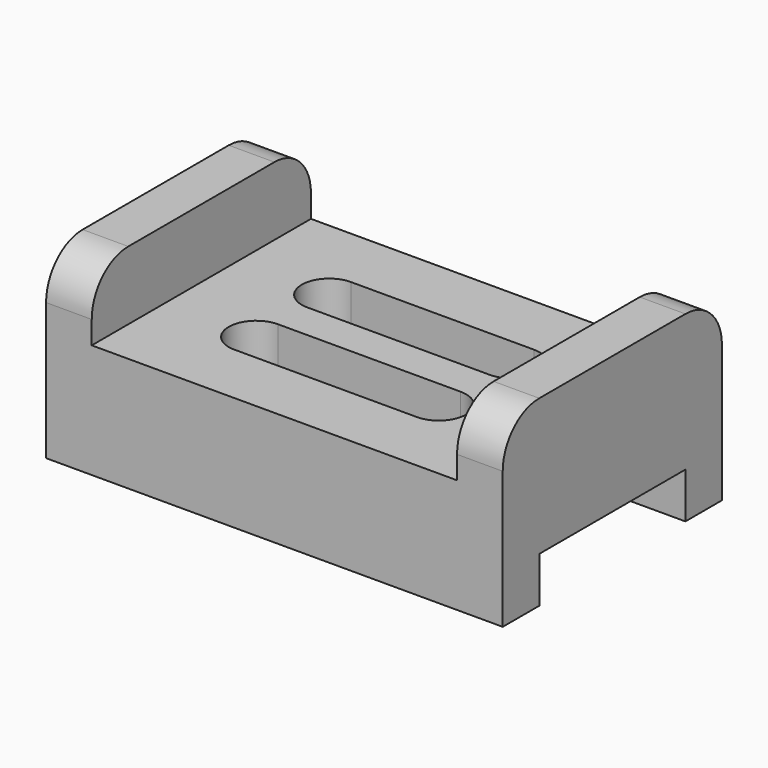
from build123d import *

# Parameters (mm, degrees)
F0_W     = 100
F0_H     = 60
F1_DEPTH = 40
F2_W     = 40
F2_H     = 10
F3_DEPTH = 100.001
F4_W     = 80
F4_H     = 60
F5_DEPTH = 15
F7_DEPTH = 25.001
F8_R     = 10


with BuildPart() as f1:
    # F0 (on Top) → F1 (new body)
    with BuildSketch(Plane.XY):
        Rectangle(F0_W, F0_H)
    extrude(amount=F1_DEPTH)

    # F2 (on face) → F3 (cut, through all)
    with BuildSketch(Plane.YZ.offset(50)):
        with Locations((0, 5)):
            Rectangle(F2_W, F2_H)
    extrude(amount=-F3_DEPTH, mode=Mode.SUBTRACT)

    # F4 (on face) → F5 (cut)
    with BuildSketch(Plane.XY.offset(40)):
        Rectangle(F4_W, F4_H)
    extrude(amount=-F5_DEPTH, mode=Mode.SUBTRACT)

    # F6 (on face) → F7 (cut, through all)
    with BuildSketch(Plane.XY.offset(25)):
        with BuildLine():
            Line((20, 16), (-20, 16))
            ThreePointArc((-20, 16), (-26, 10), (-20, 4))
            Line((-20, 4), (20, 4))
            ThreePointArc((20, 4), (26, 10), (20, 16))
        make_face()
        with BuildLine():
            Line((20, -4), (-20, -4))
            ThreePointArc((-20, -4), (-26, -10), (-20, -16))
            Line((-20, -16), (20, -16))
            ThreePointArc((20, -16), (26, -10), (20, -4))
        make_face()
    extrude(amount=-F7_DEPTH, mode=Mode.SUBTRACT)

    # F8
    f8_edges = [f1.edges().sort_by_distance(p)[0] for p in [
        (45, -30, 40),
        (-45, -30, 40),
        (45, 30, 40),
        (-45, 30, 40),
    ]]
    fillet(f8_edges, radius=F8_R)


solid = f1.part
